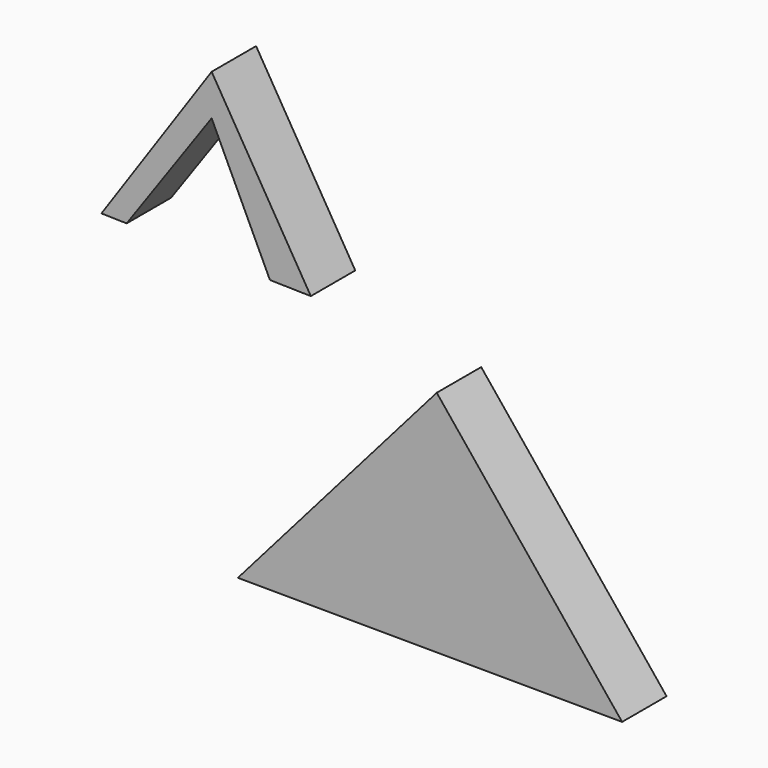
from build123d import *

# Parameters (mm, degrees)
F2_DEPTH = 10
F4_DEPTH = 10


with BuildPart() as f2:
    # F1 (on Front) → F2 (new body)
    with BuildSketch(Plane.XZ):
        Polygon((0, 0), (-35.782363, -40.958282), (33.35429, -41.300539), align=None)
    extrude(amount=F2_DEPTH)


with BuildPart() as f4:
    # F3 (on Front) → F4 (new body)
    with BuildSketch(Plane.XZ):
        Polygon((-40.508095, 37.675362), (-60.337234, 8.781475), (-55.800775, 8.679149), (-40.508095, 30.310253), (-30.023234, 8.0977), (-22.661872, 7.931654), align=None)
    extrude(amount=F4_DEPTH)


solid = Compound([f2.part, f4.part])
